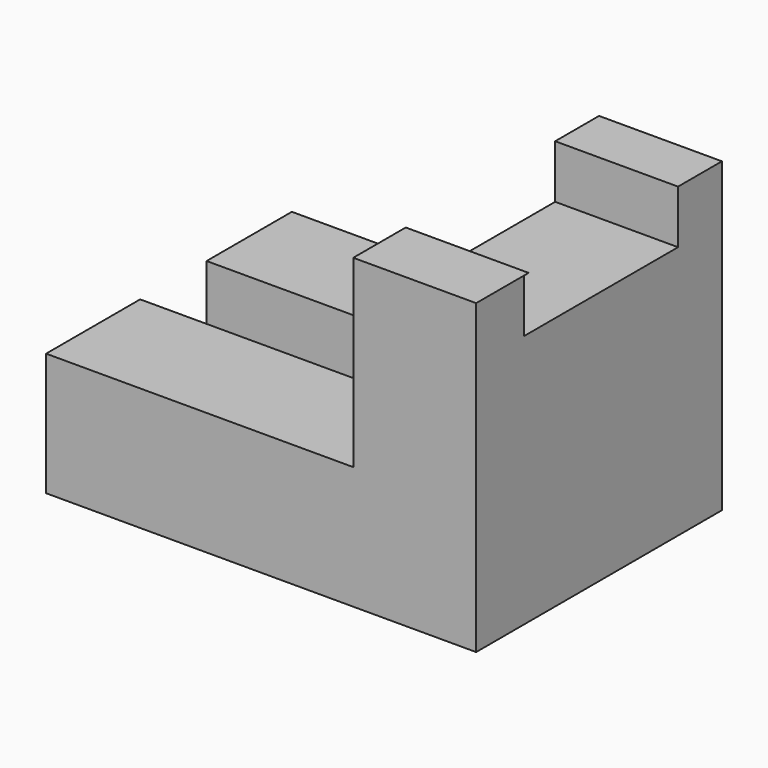
from build123d import *

# Parameters (mm, degrees)
F1_DEPTH = 31.75
F2_W     = 22.5849208206
F2_H     = 8.5840681568
F3_DEPTH = 1320.8
F5_DEPTH = 127


with BuildPart() as f1:
    # F0 (on Front) → F1 (new body)
    with BuildSketch(Plane.XZ):
        Polygon((-44.45, 0), (0, 0), (0, 31.75), (-12.7, 31.75), (-12.7, 12.7), (-44.45, 12.7), align=None)
    extrude(amount=F1_DEPTH)

    # F2 (on face) → F3 (cut)
    with BuildSketch(Plane.XY.offset(12.7)):
        with Locations((-33.1575395897, -15.3055558912)):
            Rectangle(F2_W, F2_H)
    extrude(amount=-F3_DEPTH, mode=Mode.SUBTRACT)

    # F4 (on Right) → F5 (cut)
    with BuildSketch(Plane.YZ):
        Polygon((-5.6687253527, 31.9069586694), (-25.590242818, 31.7449867725), (-25.590242818, 26.2379515916), (-5.6687253527, 26.2379515916), align=None)
    extrude(amount=-F5_DEPTH, mode=Mode.SUBTRACT)


solid = f1.part
